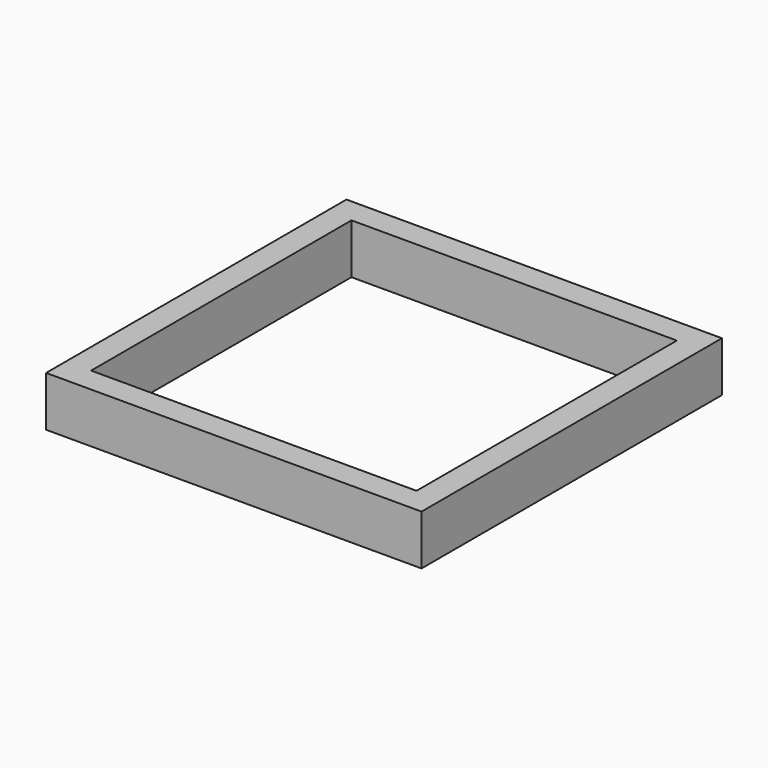
from build123d import *

# Parameters (mm, degrees)
F0_W     = 2.032
F0_H     = 26.416
F1_DEPTH = 4.064


with BuildPart() as f1:
    # F0 (on Top) → F1 (new body)
    with BuildSketch(Plane.XY):
        with Locations((-34.370981, -11.417281)):
            Rectangle(F0_W, F0_H)
        Polygon((-33.354981, -24.625281), (-35.386981, -24.625281), (-35.386981, -26.657281), (-4.906981, -26.657281), (-4.906981, -24.625281), (-6.938981, -24.625281), align=None)
        Polygon((-35.386981, 3.822719), (-35.386981, 1.790719), (-33.354981, 1.790719), (-6.938981, 1.790719), (-4.906981, 1.790719), (-4.906981, 3.822719), align=None)
        with Locations((-5.922981, -11.417281)):
            Rectangle(F0_W, F0_H)
    extrude(amount=F1_DEPTH)


solid = f1.part
